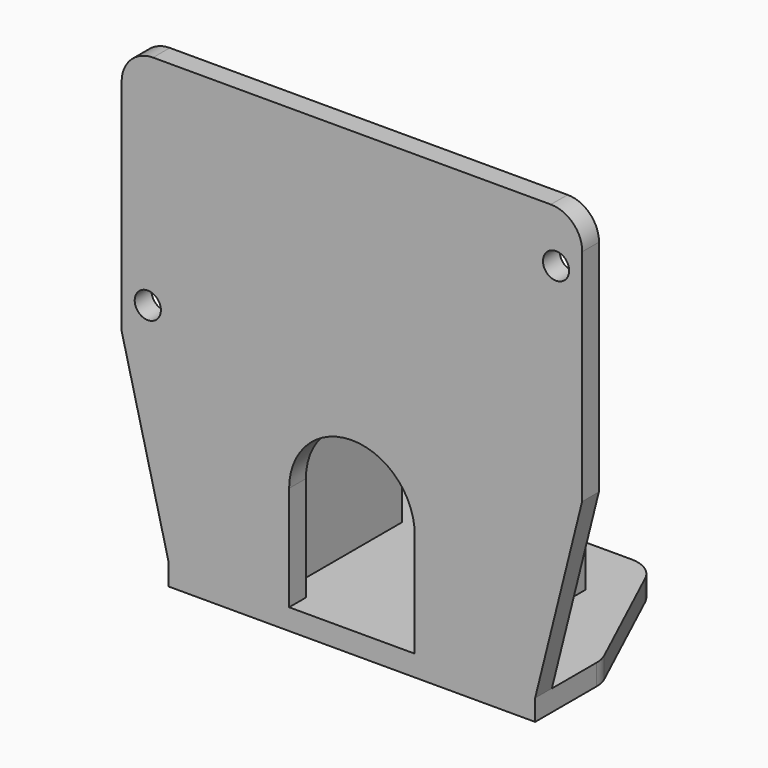
from build123d import *

# Parameters (mm, degrees)
PAD_DEPTH          = 2
SKETCH001_W        = 35
SKETCH001_H        = 2
PAD001_DEPTH       = 18
SKETCH002_W        = 44
SKETCH002_H        = 2
PAD002_DEPTH       = 24
CHAMFER_1_SIZE2    = 17.99
CHAMFER_1_SIZE     = 4.49
CHAMFER_2_SIZE2    = 17.99
CHAMFER_2_SIZE     = 4.49
FILLET_R           = 3
SKETCH003_R        = 1.25
POCKET_DEPTH       = 5
SKETCH004_R        = 1.6
POCKET001_DEPTH    = 5
SKETCH005_W        = 1.5
SKETCH005_H        = 14
PAD003_DEPTH       = 35
CHAMFER001_1_SIZE2 = 30
CHAMFER001_1_SIZE  = 10
CHAMFER001_2_SIZE2 = 30
CHAMFER001_2_SIZE  = 10
FILLET001_R        = 3
POCKET002_DEPTH    = 5


with BuildPart() as part:
    # Sketch → Pad (new body)
    with BuildSketch(Plane.XY):
        Polygon((-17.5, -15), (17.5, -15), (17.5, -7), (11, 7), (-11, 7), (-17.5, -7), align=None)
    extrude(amount=PAD_DEPTH)

    # Sketch001 (on Face8 of Pad) → Pad001 (join)
    with BuildSketch(Plane.XY.offset(2)):
        with Locations((0, -14)):
            Rectangle(SKETCH001_W, SKETCH001_H)
    extrude(amount=PAD001_DEPTH)

    # Sketch002 (on Face12 of Pad001) → Pad002 (join)
    with BuildSketch(Plane.XY.offset(20)):
        with Locations((0, -14)):
            Rectangle(SKETCH002_W, SKETCH002_H)
    extrude(amount=PAD002_DEPTH)

    # Chamfer 1
    chamfer_1_edges = [part.edges().sort_by_distance(p)[0] for p in [
        (-17.5, -14, 20),
    ]]
    chamfer_1_side = part.faces().sort_by_distance((-19.75, -14, 20))[0]
    chamfer(chamfer_1_edges, length=CHAMFER_1_SIZE, length2=CHAMFER_1_SIZE2, reference=chamfer_1_side)

    # Chamfer 2
    chamfer_2_edges = [part.edges().sort_by_distance(p)[0] for p in [
        (17.5, -14, 20),
    ]]
    chamfer_2_side = part.faces().sort_by_distance((19.75, -14, 20))[0]
    chamfer(chamfer_2_edges, length=CHAMFER_2_SIZE, length2=CHAMFER_2_SIZE2, reference=chamfer_2_side)

    # Fillet
    fillet_edges = [part.edges().sort_by_distance(p)[0] for p in [
        (22, -14, 44),
        (17.5, -7, 1),
        (11, 7, 1),
        (-11, 7, 1),
        (-17.5, -7, 1),
        (-22, -14, 44),
    ]]
    fillet(fillet_edges, radius=FILLET_R)

    # Sketch003 (on Face1 of Fillet) → Pocket (cut)
    with BuildSketch(Plane(origin=(0, -13, 0), x_dir=(-1, 0, 0), z_dir=(0, 1, 0))):
        with Locations((-19.5, 39)):
            Circle(SKETCH003_R)
        with Locations((19.5, 23)):
            Circle(SKETCH003_R)
    extrude(amount=-POCKET_DEPTH, mode=Mode.SUBTRACT)

    # Sketch004 (on Face16 of Pocket) → Pocket001 (cut)
    with BuildSketch(Plane.XY.offset(2)):
        Circle(SKETCH004_R)
    extrude(amount=-POCKET001_DEPTH, mode=Mode.SUBTRACT)

    # Sketch005 (on Face16 of Pocket001) → Pad003 (join)
    with BuildSketch(Plane.XY.offset(2)):
        with Locations((-8.75, -6)):
            Rectangle(SKETCH005_W, SKETCH005_H)
        with Locations((8.75, -6)):
            Rectangle(SKETCH005_W, SKETCH005_H)
    extrude(amount=PAD003_DEPTH)

    # Chamfer001 1
    chamfer001_1_edges = [part.edges().sort_by_distance(p)[0] for p in [
        (-8.75, 1, 37),
    ]]
    chamfer001_1_side = part.faces().sort_by_distance((-8.75, -6, 37))[0]
    chamfer(chamfer001_1_edges, length=CHAMFER001_1_SIZE, length2=CHAMFER001_1_SIZE2, reference=chamfer001_1_side)

    # Chamfer001 2
    chamfer001_2_edges = [part.edges().sort_by_distance(p)[0] for p in [
        (8.75, 1, 37),
    ]]
    chamfer001_2_side = part.faces().sort_by_distance((8.75, -6, 37))[0]
    chamfer(chamfer001_2_edges, length=CHAMFER001_2_SIZE, length2=CHAMFER001_2_SIZE2, reference=chamfer001_2_side)

    # Fillet001
    fillet001_edges = [part.edges().sort_by_distance(p)[0] for p in [
        (8.75, -9, 37),
        (-8.75, -9, 37),
        (-8.75, 1, 7),
        (8.75, 1, 7),
    ]]
    fillet(fillet001_edges, radius=FILLET001_R)

    # Sketch006 (on Face23 of Fillet001) → Pocket002 (cut)
    with BuildSketch(Plane(origin=(0, -13, 0), x_dir=(-1, 0, 0), z_dir=(0, 1, 0))):
        with BuildLine():
            Line((-6, 2), (-6, 12))
            ThreePointArc((6, 12), (0, 18), (-6, 12))
            Line((6, 2), (6, 12))
            Line((-6, 2), (6, 2))
        make_face()
    extrude(amount=-POCKET002_DEPTH, mode=Mode.SUBTRACT)


solid = part.part
